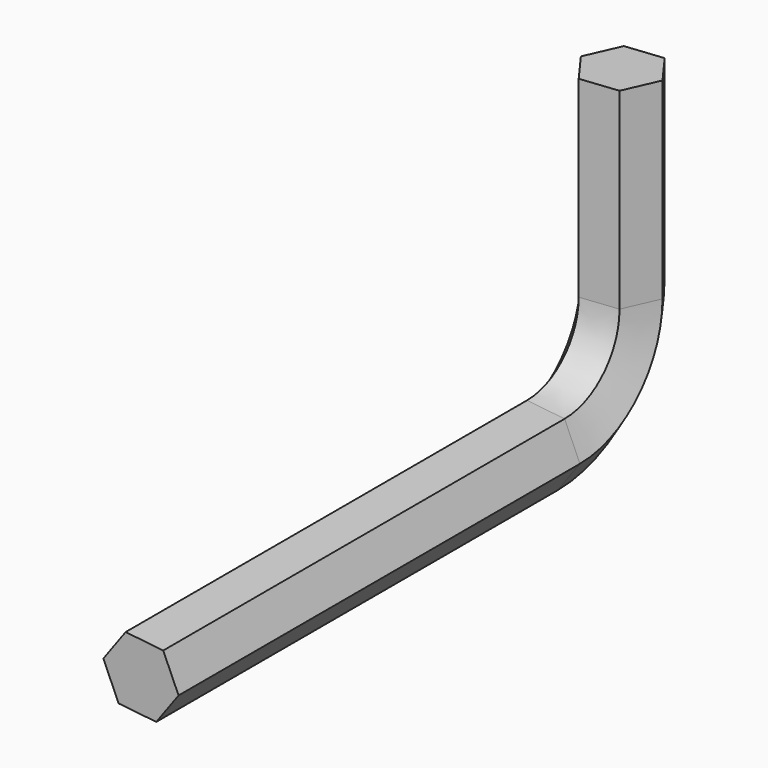
from build123d import *


with BuildPart() as f2:
    # F2: sweep along a path in F1
    with BuildLine(Plane.YZ) as f2_path:
        Line((0, 0), (642.437141, 0))
        ThreePointArc((642.437141, 0), (732.239702, 37.197439), (769.437141, 127))
        Line((769.437141, 127), (769.437141, 373.203374))
    # F0 (on Front) → F2 (sweep)
    with BuildSketch(Plane.XZ):
        Polygon((28.533813, 39.129044), (-19.619839, 44.275529), (-48.153652, 5.146485), (-28.533813, -39.129044), (19.619839, -44.275529), (48.153652, -5.146485), align=None)
    sweep(path=f2_path.line)


solid = f2.part
